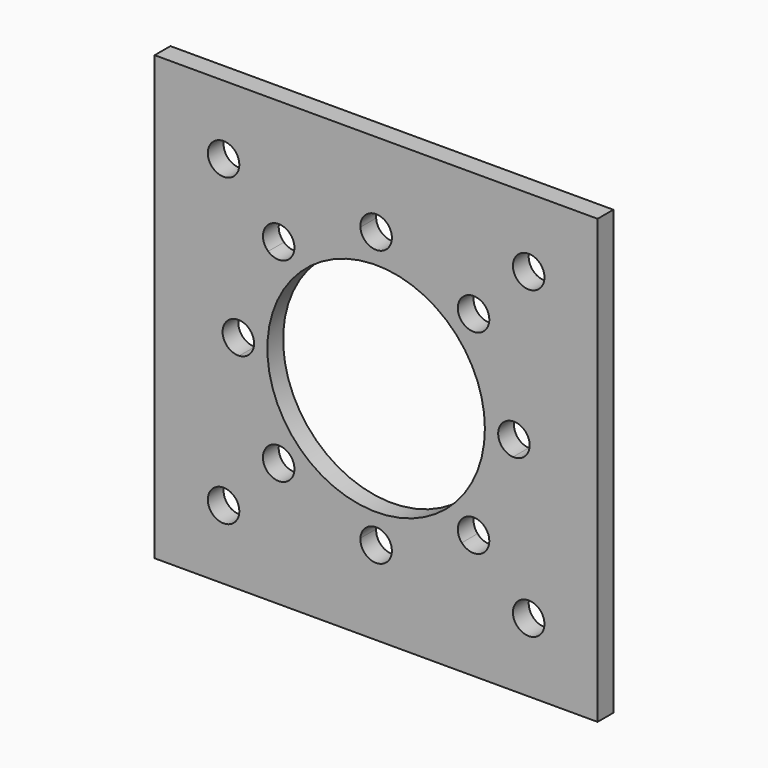
from build123d import *

# Parameters (mm, degrees)
F0_W     = 45
F0_H     = 45
F0_R     = 1.6
F0_R_2   = 11.05
F1_DEPTH = 2


with BuildPart() as f1:
    # F0 (on Front) → F1 (new body)
    with BuildSketch(Plane.XZ):
        Rectangle(F0_W, F0_H)
        with Locations((-15.5, -15.5)):
            Circle(F0_R, mode=Mode.SUBTRACT)
        with Locations((15.5, -15.5)):
            Circle(F0_R, mode=Mode.SUBTRACT)
        with Locations((-15.5, 15.5)):
            Circle(F0_R, mode=Mode.SUBTRACT)
        with BuildLine():
            ThreePointArc((10.964367, 8.705323), (12.934313, 5.357568), (13.908571, 1.597386))
            ThreePointArc((13.908571, 1.597386), (15.09857, 1.163247), (15.6, 0))
            ThreePointArc((15.6, 0), (15.09857, -1.163247), (13.908571, -1.597386))
            ThreePointArc((13.908571, -1.597386), (12.934313, -5.357568), (10.964367, -8.705323))
            ThreePointArc((10.964367, -8.705323), (11.359597, -9.2452), (11.499495, -9.899495))
            ThreePointArc((11.499495, -9.899495), (10.469287, -11.394599), (8.705323, -10.964367))
            ThreePointArc((8.705323, -10.964367), (5.357568, -12.934313), (1.597386, -13.908571))
            ThreePointArc((1.597386, -13.908571), (1.599346, -13.954267), (1.6, -14))
            ThreePointArc((1.6, -14), (-0.045733, -15.599346), (-1.597386, -13.908571))
            ThreePointArc((-1.597386, -13.908571), (-5.357568, -12.934313), (-8.705323, -10.964367))
            ThreePointArc((-8.705323, -10.964367), (-11.030866, -11.030866), (-10.964367, -8.705323))
            ThreePointArc((-10.964367, -8.705323), (-12.934313, -5.357568), (-13.908571, -1.597386))
            ThreePointArc((-13.908571, -1.597386), (-15.6, 0), (-13.908571, 1.597386))
            ThreePointArc((-13.908571, 1.597386), (-12.934313, 5.357568), (-10.964367, 8.705323))
            ThreePointArc((-10.964367, 8.705323), (-11.030866, 11.030866), (-8.705323, 10.964367))
            ThreePointArc((-8.705323, 10.964367), (-5.357568, 12.934313), (-1.597386, 13.908571))
            ThreePointArc((-1.597386, 13.908571), (-0.045733, 15.599346), (1.6, 14))
            ThreePointArc((1.6, 14), (1.599346, 13.954267), (1.597386, 13.908571))
            ThreePointArc((1.597386, 13.908571), (5.357568, 12.934313), (8.705323, 10.964367))
            ThreePointArc((8.705323, 10.964367), (10.469287, 11.394599), (11.499495, 9.899495))
            ThreePointArc((11.499495, 9.899495), (11.359597, 9.2452), (10.964367, 8.705323))
        make_face(mode=Mode.SUBTRACT)
        with Locations((15.5, 15.5)):
            Circle(F0_R, mode=Mode.SUBTRACT)
        with BuildLine():
            ThreePointArc((13.908571, -1.597386), (12.4, 0), (13.908571, 1.597386))
            ThreePointArc((13.908571, 1.597386), (12.934313, 5.357568), (10.964367, 8.705323))
            ThreePointArc((10.964367, 8.705323), (8.768124, 8.768124), (8.705323, 10.964367))
            ThreePointArc((8.705323, 10.964367), (5.357568, 12.934313), (1.597386, 13.908571))
            ThreePointArc((1.597386, 13.908571), (0, 12.4), (-1.597386, 13.908571))
            ThreePointArc((-1.597386, 13.908571), (-5.357568, 12.934313), (-8.705323, 10.964367))
            ThreePointArc((-8.705323, 10.964367), (-8.40439, 10.469287), (-8.299495, 9.899495))
            ThreePointArc((-8.299495, 9.899495), (-9.2452, 8.439393), (-10.964367, 8.705323))
            ThreePointArc((-10.964367, 8.705323), (-12.934313, 5.357568), (-13.908571, 1.597386))
            ThreePointArc((-13.908571, 1.597386), (-12.836753, 1.09857), (-12.4, 0))
            ThreePointArc((-12.4, 0), (-12.836753, -1.09857), (-13.908571, -1.597386))
            ThreePointArc((-13.908571, -1.597386), (-12.934313, -5.357568), (-10.964367, -8.705323))
            ThreePointArc((-10.964367, -8.705323), (-9.2452, -8.439393), (-8.299495, -9.899495))
            ThreePointArc((-8.299495, -9.899495), (-8.40439, -10.469287), (-8.705323, -10.964367))
            ThreePointArc((-8.705323, -10.964367), (-5.357568, -12.934313), (-1.597386, -13.908571))
            ThreePointArc((-1.597386, -13.908571), (0, -12.4), (1.597386, -13.908571))
            ThreePointArc((1.597386, -13.908571), (5.357568, -12.934313), (8.705323, -10.964367))
            ThreePointArc((8.705323, -10.964367), (8.768124, -8.768124), (10.964367, -8.705323))
            ThreePointArc((10.964367, -8.705323), (12.934313, -5.357568), (13.908571, -1.597386))
        make_face()
        Circle(F0_R_2, mode=Mode.SUBTRACT)
    extrude(amount=F1_DEPTH)


solid = f1.part
